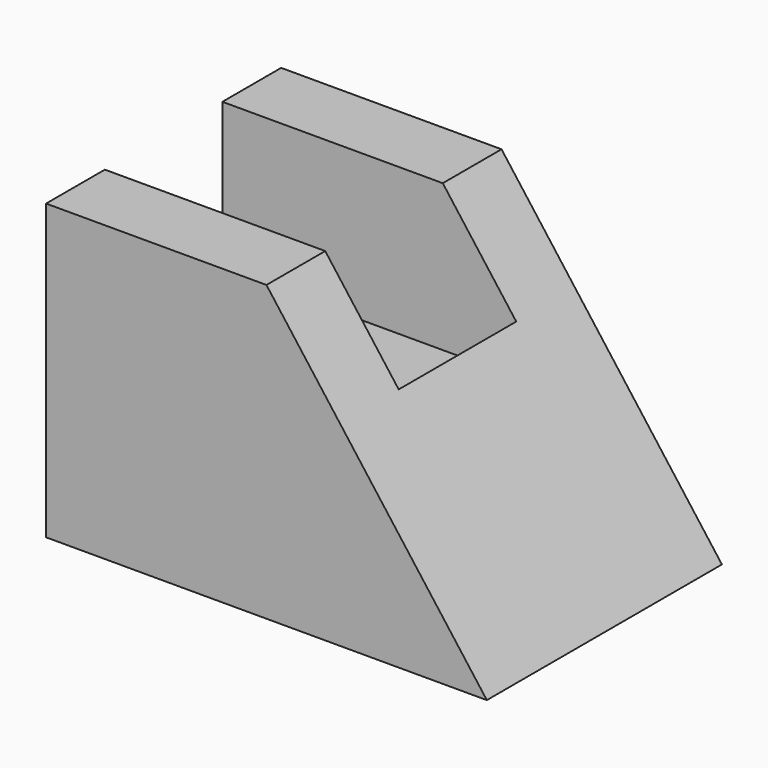
from build123d import *

# Parameters (mm, degrees)
F1_DEPTH = 25.4
F2_W     = 12.7
F2_H     = 12.7
F3_DEPTH = 25.4


with BuildPart() as f1:
    # F0 (on Front) → F1 (new body)
    with BuildSketch(Plane.XZ):
        Polygon((0, 25.4), (0, 0), (38.1, 0), (19.05, 25.4), align=None)
    extrude(amount=F1_DEPTH)

    # F2 (on Right) → F3 (cut)
    with BuildSketch(Plane.YZ):
        with Locations((-12.7, 19.05)):
            Rectangle(F2_W, F2_H)
    extrude(amount=F3_DEPTH, mode=Mode.SUBTRACT)


solid = f1.part
